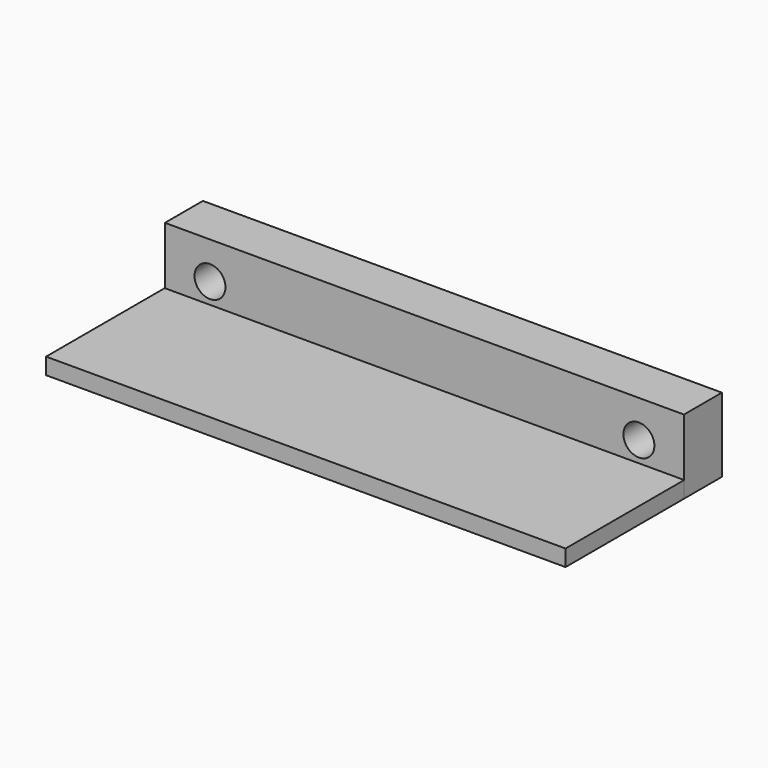
from build123d import *

# Parameters (mm, degrees)
F0_W     = 44.45
F0_H     = 6.35
F1_DEPTH = 4.064
F2_R     = 1.325099
F3_DEPTH = 25.4
F5_DEPTH = 25.4
F7_W     = 44.487826
F7_H     = 1.40328
F8_DEPTH = 12.7


with BuildPart() as f1:
    # F0 (on Front) → F1 (new body)
    with BuildSketch(Plane.XZ):
        Rectangle(F0_W, F0_H)
    extrude(amount=F1_DEPTH)

    # F2 (on face) → F3 (cut)
    with BuildSketch(Plane.XZ.offset(4.064)):
        with Locations((-18.36648, 0)):
            Circle(F2_R)
    extrude(amount=-F3_DEPTH, mode=Mode.SUBTRACT)

    # F2 (on face) → F5 (cut)
    with BuildSketch(Plane.XZ.offset(4.064)):
        with Locations((-18.36648, 0)):
            Circle(F2_R)
    extrude(amount=-F5_DEPTH, mode=Mode.SUBTRACT)

    # F6: F1 across plane


with BuildPart() as f1_1:
    add(f1.part)
    add(f1.part.mirror(Plane.YZ), mode=Mode.INTERSECT)

    # F7 (on face) → F8 (join)
    with BuildSketch(Plane.XZ.offset(4.064)):
        with Locations((0, -2.45779)):
            Rectangle(F7_W, F7_H)
    extrude(amount=F8_DEPTH)


solid = f1_1.part
